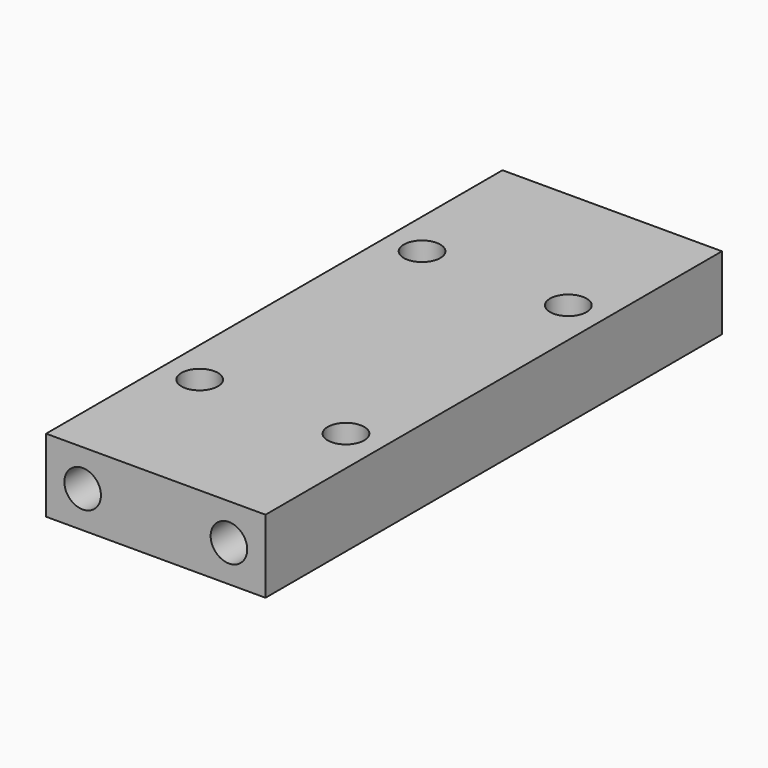
from build123d import *

# Parameters (mm, degrees)
F0_W     = 30
F0_H     = 78
F0_R     = 2.5
F1_DEPTH = 10
F2_R     = 2.5
F3_DEPTH = 20
F4_R     = 2.5
F5_DEPTH = 20


with BuildPart() as f1:
    # F0 (on Top) → F1 (new body)
    with BuildSketch(Plane.XY):
        Rectangle(F0_W, F0_H)
        with Locations((-10, -19)):
            Circle(F0_R, mode=Mode.SUBTRACT)
        with Locations((10, -19)):
            Circle(F0_R, mode=Mode.SUBTRACT)
        with Locations((-10, 19)):
            Circle(F0_R, mode=Mode.SUBTRACT)
        with Locations((10, 19)):
            Circle(F0_R, mode=Mode.SUBTRACT)
    extrude(amount=F1_DEPTH)

    # F2 (on face) → F3 (cut)
    with BuildSketch(Plane(origin=(0, 39, 0), x_dir=(-1, 0, 0), z_dir=(0, 1, 0))):
        with Locations((-10, 5)):
            Circle(F2_R)
        with Locations((10, 5)):
            Circle(F2_R)
    extrude(amount=-F3_DEPTH, mode=Mode.SUBTRACT)

    # F4 (on face) → F5 (cut)
    with BuildSketch(Plane.XZ.offset(39)):
        with Locations((-10, 5)):
            Circle(F4_R)
        with Locations((10, 5)):
            Circle(F4_R)
    extrude(amount=-F5_DEPTH, mode=Mode.SUBTRACT)


solid = f1.part
